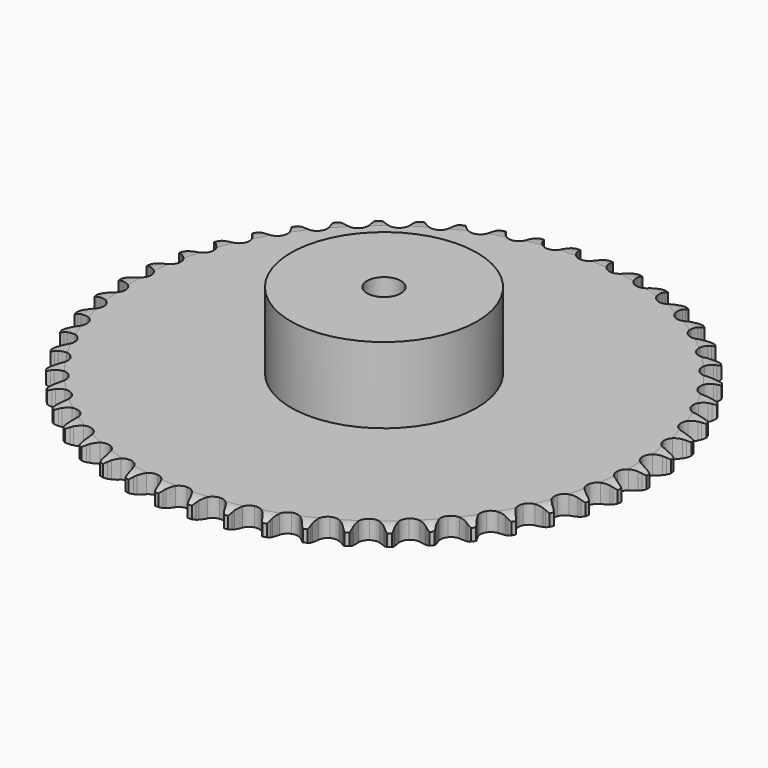
from build123d import *

# Parameters (mm, degrees)
PAD_DEPTH         = 11.1
SKETCH001_R       = 55
PAD001_DEPTH      = 56
SKETCH002_R       = 10
POCKET_DEPTH      = 0.001
POCKET_DEPTH_BACK = 56.001


with BuildPart() as part:
    # Sprocket → Pad (new body)
    with BuildSketch(Plane.XY):
        with BuildLine():
            ThreePointArc((-9.906473, 157.45888), (-8.588511, 155.781936), (-7.66687, 153.858464))
            Line((-7.66687, 153.858464), (-7.079791, 152.183904))
            ThreePointArc((-7.079791, 152.183904), (-6.153474, 150.057582), (-4.925101, 148.090246))
            ThreePointArc((-4.925101, 148.090246), (-2.761333, 146.251989), (0, 145.5916))
            ThreePointArc((0, 145.5916), (2.761333, 146.251989), (4.925101, 148.090246))
            ThreePointArc((4.925101, 148.090246), (6.153474, 150.057582), (7.079791, 152.183904))
            Line((7.079791, 152.183904), (7.66687, 153.858464))
            ThreePointArc((7.66687, 153.858464), (8.588511, 155.781936), (9.906473, 157.45888))
            ThreePointArc((9.906473, 157.45888), (11.003866, 155.629975), (11.677165, 153.606158))
            Line((11.677165, 153.606158), (12.049736, 151.871222))
            ThreePointArc((12.049736, 151.871222), (12.70225, 149.645568), (13.674365, 147.539789))
            ThreePointArc((13.674365, 147.539789), (15.590675, 145.444835), (18.247466, 144.443567))
            ThreePointArc((18.247466, 144.443567), (21.069794, 144.752662), (23.446894, 146.305231))
            Line((23.446894, 146.305231), (26.097665, 150.096556))
            ThreePointArc((26.097665, 150.096556), (26.471464, 150.901604), (26.889993, 151.684331))
            ThreePointArc((26.889993, 151.684331), (28.045441, 153.477123), (29.563188, 154.975659))
            ThreePointArc((29.563188, 154.975659), (30.422705, 153.023636), (30.837043, 150.931391))
            Line((30.837043, 150.931391), (30.989232, 149.16344))
            ThreePointArc((30.989232, 149.16344), (31.357652, 146.873554), (32.058177, 144.662541))
            ThreePointArc((32.058177, 144.662541), (33.69681, 142.34393), (36.207159, 141.017572))
            ThreePointArc((36.207159, 141.017572), (39.045972, 140.970498), (41.598916, 142.212896))
            Line((41.598916, 142.212896), (44.703964, 145.642095))
            ThreePointArc((44.703964, 145.642095), (45.175714, 146.393946), (45.689045, 147.118045))
            ThreePointArc((45.689045, 147.118045), (47.060079, 148.751884), (48.753674, 150.04838))
            ThreePointArc((48.753674, 150.04838), (49.36176, 148.004023), (49.510603, 145.876345))
            Line((49.510603, 145.876345), (49.440009, 144.103261))
            ThreePointArc((49.440009, 144.103261), (49.518525, 141.785256), (49.936413, 139.503879))
            ThreePointArc((49.936413, 139.503879), (51.271525, 136.998175), (53.595843, 135.367646))
            ThreePointArc((53.595843, 135.367646), (56.406371, 134.965146), (59.094898, 135.877778))
            Line((59.094898, 135.877778), (62.605255, 138.890771))
            ThreePointArc((62.605255, 138.890771), (63.167517, 139.577567), (63.767554, 140.231619))
            ThreePointArc((63.767554, 140.231619), (65.332551, 141.680739), (67.175285, 142.754748))
            ThreePointArc((67.175285, 142.754748), (67.522351, 140.650298), (67.403351, 138.520743))
            Line((67.403351, 138.520743), (67.111087, 136.770487))
            ThreePointArc((67.111087, 136.770487), (66.898461, 134.46092), (67.027121, 132.145157))
            ThreePointArc((67.027121, 132.145157), (68.037658, 129.491878), (70.139288, 127.582891))
            ThreePointArc((70.139288, 127.582891), (72.877208, 126.831313), (75.658919, 127.399786))
            Line((75.658919, 127.399786), (79.519223, 129.949057))
            ThreePointArc((79.519223, 129.949057), (80.16313, 130.559967), (80.84041, 131.133657))
            ThreePointArc((80.84041, 131.133657), (82.574689, 132.375205), (84.537502, 133.209788))
            ThreePointArc((84.537502, 133.209788), (84.618074, 131.078433), (84.233108, 128.980585))
            Line((84.233108, 128.980585), (83.723783, 127.280762))
            ThreePointArc((83.723783, 127.280762), (83.223369, 125.016055), (83.060772, 122.702427))
            ThreePointArc((83.060772, 122.702427), (83.730797, 119.943416), (85.576595, 117.786078))
            ThreePointArc((85.576595, 117.786078), (88.198728, 116.697274), (91.029753, 116.912624))
            Line((91.029753, 116.912624), (95.179126, 118.957968))
            ThreePointArc((95.179126, 118.957968), (95.894523, 119.483359), (96.638364, 119.967639))
            ThreePointArc((96.638364, 119.967639), (98.514576, 120.982034), (100.566512, 121.564031))
            ThreePointArc((100.566512, 121.564031), (100.379319, 119.439384), (99.734459, 117.406327))
            Line((99.734459, 117.406327), (99.016106, 115.783742))
            ThreePointArc((99.016106, 115.783742), (98.235794, 113.599612), (97.784505, 111.324607))
            ThreePointArc((97.784505, 111.324607), (98.103451, 108.503375), (99.664308, 106.131709))
            ThreePointArc((99.664308, 106.131709), (102.129301, 104.722849), (104.964993, 104.58168))
            Line((104.964993, 104.58168), (109.337997, 106.090842))
            ThreePointArc((109.337997, 106.090842), (110.113601, 106.522426), (110.912274, 106.90966))
            ThreePointArc((110.912274, 106.90966), (112.900828, 107.680904), (115.009528, 108.001136))
            ThreePointArc((115.009528, 108.001136), (114.557522, 105.916704), (113.662938, 103.980501))
            Line((113.662938, 103.980501), (112.746885, 102.460744))
            ThreePointArc((112.746885, 102.460744), (111.698982, 100.391636), (110.966118, 98.191131))
            ThreePointArc((110.966118, 98.191131), (110.928954, 95.35217), (112.180256, 92.803578))
            ThreePointArc((112.180256, 92.803578), (114.449235, 91.096883), (117.244873, 90.60142))
            Line((117.244873, 90.60142), (121.772542, 91.550599))
            ThreePointArc((121.772542, 91.550599), (122.596123, 91.881571), (123.437031, 92.165651))
            ThreePointArc((123.437031, 92.165651), (125.506567, 92.681582), (127.638776, 92.734999))
            ThreePointArc((127.638776, 92.734999), (126.929085, 90.723655), (125.798884, 88.91484))
            Line((125.798884, 88.91484), (124.699579, 87.521879))
            ThreePointArc((124.699579, 87.521879), (123.400611, 85.600423), (122.397729, 83.509122))
            ThreePointArc((122.397729, 83.509122), (122.005042, 80.697206), (122.927053, 78.01188))
            ThreePointArc((122.927053, 78.01188), (124.964235, 76.034264), (127.675731, 75.192322))
            Line((127.675731, 75.192322), (132.286662, 75.566549))
            ThreePointArc((132.286662, 75.566549), (133.14523, 75.791689), (134.015112, 75.968136))
            ThreePointArc((134.015112, 75.968136), (136.132993, 76.220616), (138.255083, 76.006375))
            ThreePointArc((138.255083, 76.006375), (137.2989, 74.099839), (135.950906, 72.446939))
            Line((135.950906, 72.446939), (134.685685, 71.202741))
            ThreePointArc((134.685685, 71.202741), (133.156138, 69.459241), (131.899055, 67.510124))
            ThreePointArc((131.899055, 67.510124), (131.157038, 64.769598), (131.735218, 61.989888))
            ThreePointArc((131.735218, 61.989888), (133.508475, 59.772539), (136.093067, 58.597396))
            Line((136.093067, 58.597396), (140.714542, 58.390769))
            ThreePointArc((140.714542, 58.390769), (141.594558, 58.506527), (142.479695, 58.572557))
            ThreePointArc((142.479695, 58.572557), (144.61252, 58.557606), (146.691025, 58.079085))
            ThreePointArc((146.691025, 58.079085), (145.50343, 56.307425), (143.958902, 54.836507))
            Line((143.958902, 54.836507), (142.547718, 53.760694))
            ThreePointArc((142.547718, 53.760694), (140.811713, 52.222644), (139.320254, 50.446452))
            ThreePointArc((139.320254, 50.446452), (138.240608, 47.820534), (138.46584, 44.990279))
            ThreePointArc((138.46584, 44.990279), (139.947206, 42.568166), (142.364133, 41.078354))
            Line((142.364133, 41.078354), (146.92327, 40.294131))
            ThreePointArc((146.92327, 40.294131), (147.810855, 40.298682), (148.697288, 40.253254))
            ThreePointArc((148.697288, 40.253254), (150.811421, 39.971107), (152.813562, 39.235854))
            ThreePointArc((152.813562, 39.235854), (151.413283, 37.627008), (149.69658, 36.36127))
            Line((149.69658, 36.36127), (148.161689, 35.470808))
            ThreePointArc((148.161689, 35.470808), (146.246603, 34.162466), (144.544289, 32.587209))
            ThreePointArc((144.544289, 32.587209), (143.144042, 30.117313), (143.012772, 27.281145))
            ThreePointArc((143.012772, 27.281145), (144.178887, 24.692467), (146.390032, 22.911481))
            Line((146.390032, 22.911481), (150.81493, 21.562032))
            ThreePointArc((150.81493, 21.562032), (151.696086, 21.455302), (152.569836, 21.299133))
            ThreePointArc((152.569836, 21.299133), (154.631936, 20.75424), (156.526138, 19.77385))
            ThreePointArc((156.526138, 19.77385), (154.935259, 18.353192), (153.073453, 17.312594))
            Line((153.073453, 17.312594), (151.43906, 16.621527))
            ThreePointArc((151.43906, 16.621527), (149.375098, 15.563525), (147.488774, 14.214046))
            ThreePointArc((147.488774, 14.214046), (145.790009, 11.939123), (145.304308, 9.141772))
            ThreePointArc((145.304308, 9.141772), (146.13678, 6.427354), (148.107273, 4.383281))
            Line((148.107273, 4.383281), (152.328148, 2.489886))
            ThreePointArc((152.328148, 2.489886), (153.188979, 2.27356), (154.036266, 2.009112))
            ThreePointArc((154.036266, 2.009112), (156.013813, 1.210066), (157.770203, 0))
            ThreePointArc((157.770203, 0), (156.013813, -1.210066), (154.036266, -2.009112))
            Line((154.036266, -2.009112), (152.328148, -2.489886))
            ThreePointArc((152.328148, -2.489886), (150.147857, -3.280862), (148.107273, -4.383281))
            ThreePointArc((148.107273, -4.383281), (146.13678, -6.427354), (145.304308, -9.141772))
            ThreePointArc((145.304308, -9.141772), (145.790009, -11.939123), (147.488774, -14.214046))
            Line((147.488774, -14.214046), (151.43906, -16.621527))
            ThreePointArc((151.43906, -16.621527), (152.265991, -16.944038), (153.073453, -17.312594))
            ThreePointArc((153.073453, -17.312594), (154.935259, -18.353192), (156.526138, -19.77385))
            ThreePointArc((156.526138, -19.77385), (154.631936, -20.75424), (152.569836, -21.299133))
            Line((152.569836, -21.299133), (150.81493, -21.562032))
            ThreePointArc((150.81493, -21.562032), (148.552696, -22.073508), (146.390032, -22.911481))
            ThreePointArc((146.390032, -22.911481), (144.178887, -24.692467), (143.012772, -27.281145))
            ThreePointArc((143.012772, -27.281145), (143.144042, -30.117313), (144.544289, -32.587209))
            Line((144.544289, -32.587209), (148.161689, -35.470808))
            ThreePointArc((148.161689, -35.470808), (148.941677, -35.894418), (149.69658, -36.36127))
            ThreePointArc((149.69658, -36.36127), (151.413283, -37.627008), (152.813562, -39.235854))
            ThreePointArc((152.813562, -39.235854), (150.811421, -39.971107), (148.697288, -40.253254))
            Line((148.697288, -40.253254), (146.92327, -40.294131))
            ThreePointArc((146.92327, -40.294131), (144.614769, -40.518041), (142.364133, -41.078354))
            ThreePointArc((142.364133, -41.078354), (139.947206, -42.568166), (138.46584, -44.990279))
            ThreePointArc((138.46584, -44.990279), (138.240608, -47.820534), (139.320254, -50.446452))
            Line((139.320254, -50.446452), (142.547718, -53.760694))
            ThreePointArc((142.547718, -53.760694), (143.268464, -54.278722), (143.958902, -54.836507))
            ThreePointArc((143.958902, -54.836507), (145.50343, -56.307425), (146.691025, -58.079085))
            ThreePointArc((146.691025, -58.079085), (144.61252, -58.557606), (142.479695, -58.572557))
            Line((142.479695, -58.572557), (140.714542, -58.390769))
            ThreePointArc((140.714542, -58.390769), (138.396181, -58.323581), (136.093067, -58.597396))
            ThreePointArc((136.093067, -58.597396), (133.508475, -59.772539), (131.735218, -61.989888))
            ThreePointArc((131.735218, -61.989888), (131.157038, -64.769598), (131.899055, -67.510124))
            Line((131.899055, -67.510124), (134.685685, -71.202741))
            ThreePointArc((134.685685, -71.202741), (135.335822, -71.807018), (135.950906, -72.446939))
            ThreePointArc((135.950906, -72.446939), (137.2989, -74.099839), (138.255083, -76.006375))
            ThreePointArc((138.255083, -76.006375), (136.132993, -76.220616), (134.015112, -75.968136))
            Line((134.015112, -75.968136), (132.286662, -75.566549))
            ThreePointArc((132.286662, -75.566549), (129.995003, -75.209323), (127.675731, -75.192322))
            ThreePointArc((127.675731, -75.192322), (124.964235, -76.034264), (122.927053, -78.01188))
            ThreePointArc((122.927053, -78.01188), (122.005042, -80.697206), (122.397729, -83.509122))
            Line((122.397729, -83.509122), (124.699579, -87.521879))
            ThreePointArc((124.699579, -87.521879), (125.268853, -88.202874), (125.798884, -88.91484))
            ThreePointArc((125.798884, -88.91484), (126.929085, -90.723655), (127.638776, -92.734999))
            ThreePointArc((127.638776, -92.734999), (125.506567, -92.681582), (123.437031, -92.165651))
            Line((123.437031, -92.165651), (121.772542, -91.550599))
            ThreePointArc((121.772542, -91.550599), (119.543726, -90.908969), (117.244873, -90.60142))
            ThreePointArc((117.244873, -90.60142), (114.449235, -91.096883), (112.180256, -92.803578))
            ThreePointArc((112.180256, -92.803578), (110.928954, -95.35217), (110.966118, -98.191131))
            Line((110.966118, -98.191131), (112.746885, -102.460744))
            ThreePointArc((112.746885, -102.460744), (113.226319, -103.207719), (113.662938, -103.980501))
            ThreePointArc((113.662938, -103.980501), (114.557522, -105.916704), (115.009528, -108.001136))
            ThreePointArc((115.009528, -108.001136), (112.900828, -107.680904), (110.912274, -106.90966))
            Line((110.912274, -106.90966), (109.337997, -106.090842))
            ThreePointArc((109.337997, -106.090842), (107.207173, -105.174927), (104.964993, -104.58168))
            ThreePointArc((104.964993, -104.58168), (102.129301, -104.722849), (99.664308, -106.131709))
            ThreePointArc((99.664308, -106.131709), (98.103451, -108.503375), (97.784505, -111.324607))
            Line((97.784505, -111.324607), (99.016106, -115.783742))
            ThreePointArc((99.016106, -115.783742), (99.398138, -116.584916), (99.734459, -117.406327))
            ThreePointArc((99.734459, -117.406327), (100.379319, -119.439384), (100.566512, -121.564031))
            ThreePointArc((100.566512, -121.564031), (98.514576, -120.982034), (96.638364, -119.967639))
            Line((96.638364, -119.967639), (95.179126, -118.957968))
            ThreePointArc((95.179126, -118.957968), (93.179899, -117.782213), (91.029753, -116.912624))
            ThreePointArc((91.029753, -116.912624), (88.198728, -116.697274), (85.576595, -117.786078))
            ThreePointArc((85.576595, -117.786078), (83.730797, -119.943416), (83.060772, -122.702427))
            Line((83.060772, -122.702427), (83.723783, -127.280762))
            ThreePointArc((83.723783, -127.280762), (84.00239, -128.123499), (84.233108, -128.980585))
            ThreePointArc((84.233108, -128.980585), (84.618074, -131.078433), (84.537502, -133.209788))
            ThreePointArc((84.537502, -133.209788), (82.574689, -132.375205), (80.84041, -131.133657))
            Line((80.84041, -131.133657), (79.519223, -129.949057))
            ThreePointArc((79.519223, -129.949057), (77.683122, -128.532003), (75.658919, -127.399786))
            ThreePointArc((75.658919, -127.399786), (72.877208, -126.831313), (70.139288, -127.582891))
            ThreePointArc((70.139288, -127.582891), (68.037658, -129.491878), (67.027121, -132.145157))
            Line((67.027121, -132.145157), (67.111087, -136.770487))
            ThreePointArc((67.111087, -136.770487), (67.281873, -137.641498), (67.403351, -138.520743))
            ThreePointArc((67.403351, -138.520743), (67.522351, -140.650298), (67.175285, -142.754748))
            ThreePointArc((67.175285, -142.754748), (65.332551, -141.680739), (63.767554, -140.231619))
            Line((63.767554, -140.231619), (62.605255, -138.890771))
            ThreePointArc((62.605255, -138.890771), (60.961236, -137.254766), (59.094898, -135.877778))
            ThreePointArc((59.094898, -135.877778), (56.406371, -134.965146), (53.595843, -135.367646))
            ThreePointArc((53.595843, -135.367646), (51.271525, -136.998175), (49.936413, -139.503879))
            Line((49.936413, -139.503879), (49.440009, -144.103261))
            ThreePointArc((49.440009, -144.103261), (49.500282, -144.988809), (49.510603, -145.876345))
            ThreePointArc((49.510603, -145.876345), (49.36176, -148.004023), (48.753674, -150.04838))
            ThreePointArc((48.753674, -150.04838), (47.060079, -148.751884), (45.689045, -147.118045))
            Line((45.689045, -147.118045), (44.703964, -145.642095))
            ThreePointArc((44.703964, -145.642095), (43.277954, -143.81294), (41.598916, -142.212896))
            ThreePointArc((41.598916, -142.212896), (39.045972, -140.970498), (36.207159, -141.017572))
            ThreePointArc((36.207159, -141.017572), (33.69681, -142.34393), (32.058177, -144.662541))
            Line((32.058177, -144.662541), (30.989232, -149.16344))
            ThreePointArc((30.989232, -149.16344), (30.938041, -150.049559), (30.837043, -150.931391))
            ThreePointArc((30.837043, -150.931391), (30.422705, -153.023636), (29.563188, -154.975659))
            ThreePointArc((29.563188, -154.975659), (28.045441, -153.477123), (26.889993, -151.684331))
            Line((26.889993, -151.684331), (26.097665, -150.096556))
            ThreePointArc((26.097665, -150.096556), (24.912154, -148.103098), (23.446894, -146.305231))
            ThreePointArc((23.446894, -146.305231), (21.069794, -144.752662), (18.247466, -144.443567))
            ThreePointArc((18.247466, -144.443567), (15.590675, -145.444835), (13.674365, -147.539789))
            Line((13.674365, -147.539789), (12.049736, -151.871222))
            ThreePointArc((12.049736, -151.871222), (11.887889, -152.743938), (11.677165, -153.606158))
            ThreePointArc((11.677165, -153.606158), (11.003866, -155.629975), (9.906473, -157.45888))
            ThreePointArc((9.906473, -157.45888), (8.588511, -155.781936), (7.66687, -153.858464))
            Line((7.66687, -153.858464), (7.079791, -152.183904))
            ThreePointArc((7.079791, -152.183904), (6.153474, -150.057582), (4.925101, -148.090246))
            ThreePointArc((4.925101, -148.090246), (2.761333, -146.251989), (0, -145.5916))
            ThreePointArc((0, -145.5916), (-2.761333, -146.251989), (-4.925101, -148.090246))
            Line((-4.925101, -148.090246), (-7.079791, -152.183904))
            ThreePointArc((-7.079791, -152.183904), (-7.349742, -153.029454), (-7.66687, -153.858464))
            ThreePointArc((-7.66687, -153.858464), (-8.588511, -155.781936), (-9.906473, -157.45888))
            ThreePointArc((-9.906473, -157.45888), (-11.003866, -155.629975), (-11.677165, -153.606158))
            Line((-11.677165, -153.606158), (-12.049736, -151.871222))
            ThreePointArc((-12.049736, -151.871222), (-12.70225, -149.645568), (-13.674365, -147.539789))
            ThreePointArc((-13.674365, -147.539789), (-15.590675, -145.444835), (-18.247466, -144.443567))
            ThreePointArc((-18.247466, -144.443567), (-21.069794, -144.752662), (-23.446894, -146.305231))
            Line((-23.446894, -146.305231), (-26.097665, -150.096556))
            ThreePointArc((-26.097665, -150.096556), (-26.471464, -150.901604), (-26.889993, -151.684331))
            ThreePointArc((-26.889993, -151.684331), (-28.045441, -153.477123), (-29.563188, -154.975659))
            ThreePointArc((-29.563188, -154.975659), (-30.422705, -153.023636), (-30.837043, -150.931391))
            Line((-30.837043, -150.931391), (-30.989232, -149.16344))
            ThreePointArc((-30.989232, -149.16344), (-31.357652, -146.873554), (-32.058177, -144.662541))
            ThreePointArc((-32.058177, -144.662541), (-33.69681, -142.34393), (-36.207159, -141.017572))
            ThreePointArc((-36.207159, -141.017572), (-39.045972, -140.970498), (-41.598916, -142.212896))
            Line((-41.598916, -142.212896), (-44.703964, -145.642095))
            ThreePointArc((-44.703964, -145.642095), (-45.175714, -146.393946), (-45.689045, -147.118045))
            ThreePointArc((-45.689045, -147.118045), (-47.060079, -148.751884), (-48.753674, -150.04838))
            ThreePointArc((-48.753674, -150.04838), (-49.36176, -148.004023), (-49.510603, -145.876345))
            Line((-49.510603, -145.876345), (-49.440009, -144.103261))
            ThreePointArc((-49.440009, -144.103261), (-49.518525, -141.785256), (-49.936413, -139.503879))
            ThreePointArc((-49.936413, -139.503879), (-51.271525, -136.998175), (-53.595843, -135.367646))
            ThreePointArc((-53.595843, -135.367646), (-56.406371, -134.965146), (-59.094898, -135.877778))
            Line((-59.094898, -135.877778), (-62.605255, -138.890771))
            ThreePointArc((-62.605255, -138.890771), (-63.167517, -139.577567), (-63.767554, -140.231619))
            ThreePointArc((-63.767554, -140.231619), (-65.332551, -141.680739), (-67.175285, -142.754748))
            ThreePointArc((-67.175285, -142.754748), (-67.522351, -140.650298), (-67.403351, -138.520743))
            Line((-67.403351, -138.520743), (-67.111087, -136.770487))
            ThreePointArc((-67.111087, -136.770487), (-66.898461, -134.46092), (-67.027121, -132.145157))
            ThreePointArc((-67.027121, -132.145157), (-68.037658, -129.491878), (-70.139288, -127.582891))
            ThreePointArc((-70.139288, -127.582891), (-72.877208, -126.831313), (-75.658919, -127.399786))
            Line((-75.658919, -127.399786), (-79.519223, -129.949057))
            ThreePointArc((-79.519223, -129.949057), (-80.16313, -130.559967), (-80.84041, -131.133657))
            ThreePointArc((-80.84041, -131.133657), (-82.574689, -132.375205), (-84.537502, -133.209788))
            ThreePointArc((-84.537502, -133.209788), (-84.618074, -131.078433), (-84.233108, -128.980585))
            Line((-84.233108, -128.980585), (-83.723783, -127.280762))
            ThreePointArc((-83.723783, -127.280762), (-83.223369, -125.016055), (-83.060772, -122.702427))
            ThreePointArc((-83.060772, -122.702427), (-83.730797, -119.943416), (-85.576595, -117.786078))
            ThreePointArc((-85.576595, -117.786078), (-88.198728, -116.697274), (-91.029753, -116.912624))
            Line((-91.029753, -116.912624), (-95.179126, -118.957968))
            ThreePointArc((-95.179126, -118.957968), (-95.894523, -119.483359), (-96.638364, -119.967639))
            ThreePointArc((-96.638364, -119.967639), (-98.514576, -120.982034), (-100.566512, -121.564031))
            ThreePointArc((-100.566512, -121.564031), (-100.379319, -119.439384), (-99.734459, -117.406327))
            Line((-99.734459, -117.406327), (-99.016106, -115.783742))
            ThreePointArc((-99.016106, -115.783742), (-98.235794, -113.599612), (-97.784505, -111.324607))
            ThreePointArc((-97.784505, -111.324607), (-98.103451, -108.503375), (-99.664308, -106.131709))
            ThreePointArc((-99.664308, -106.131709), (-102.129301, -104.722849), (-104.964993, -104.58168))
            Line((-104.964993, -104.58168), (-109.337997, -106.090842))
            ThreePointArc((-109.337997, -106.090842), (-110.113601, -106.522426), (-110.912274, -106.90966))
            ThreePointArc((-110.912274, -106.90966), (-112.900828, -107.680904), (-115.009528, -108.001136))
            ThreePointArc((-115.009528, -108.001136), (-114.557522, -105.916704), (-113.662938, -103.980501))
            Line((-113.662938, -103.980501), (-112.746885, -102.460744))
            ThreePointArc((-112.746885, -102.460744), (-111.698982, -100.391636), (-110.966118, -98.191131))
            ThreePointArc((-110.966118, -98.191131), (-110.928954, -95.35217), (-112.180256, -92.803578))
            ThreePointArc((-112.180256, -92.803578), (-114.449235, -91.096883), (-117.244873, -90.60142))
            Line((-117.244873, -90.60142), (-121.772542, -91.550599))
            ThreePointArc((-121.772542, -91.550599), (-122.596123, -91.881571), (-123.437031, -92.165651))
            ThreePointArc((-123.437031, -92.165651), (-125.506567, -92.681582), (-127.638776, -92.734999))
            ThreePointArc((-127.638776, -92.734999), (-126.929085, -90.723655), (-125.798884, -88.91484))
            Line((-125.798884, -88.91484), (-124.699579, -87.521879))
            ThreePointArc((-124.699579, -87.521879), (-123.400611, -85.600423), (-122.397729, -83.509122))
            ThreePointArc((-122.397729, -83.509122), (-122.005042, -80.697206), (-122.927053, -78.01188))
            ThreePointArc((-122.927053, -78.01188), (-124.964235, -76.034264), (-127.675731, -75.192322))
            Line((-127.675731, -75.192322), (-132.286662, -75.566549))
            ThreePointArc((-132.286662, -75.566549), (-133.14523, -75.791689), (-134.015112, -75.968136))
            ThreePointArc((-134.015112, -75.968136), (-136.132993, -76.220616), (-138.255083, -76.006375))
            ThreePointArc((-138.255083, -76.006375), (-137.2989, -74.099839), (-135.950906, -72.446939))
            Line((-135.950906, -72.446939), (-134.685685, -71.202741))
            ThreePointArc((-134.685685, -71.202741), (-133.156138, -69.459241), (-131.899055, -67.510124))
            ThreePointArc((-131.899055, -67.510124), (-131.157038, -64.769598), (-131.735218, -61.989888))
            ThreePointArc((-131.735218, -61.989888), (-133.508475, -59.772539), (-136.093067, -58.597396))
            Line((-136.093067, -58.597396), (-140.714542, -58.390769))
            ThreePointArc((-140.714542, -58.390769), (-141.594558, -58.506527), (-142.479695, -58.572557))
            ThreePointArc((-142.479695, -58.572557), (-144.61252, -58.557606), (-146.691025, -58.079085))
            ThreePointArc((-146.691025, -58.079085), (-145.50343, -56.307425), (-143.958902, -54.836507))
            Line((-143.958902, -54.836507), (-142.547718, -53.760694))
            ThreePointArc((-142.547718, -53.760694), (-140.811713, -52.222644), (-139.320254, -50.446452))
            ThreePointArc((-139.320254, -50.446452), (-138.240608, -47.820534), (-138.46584, -44.990279))
            ThreePointArc((-138.46584, -44.990279), (-139.947206, -42.568166), (-142.364133, -41.078354))
            Line((-142.364133, -41.078354), (-146.92327, -40.294131))
            ThreePointArc((-146.92327, -40.294131), (-147.810855, -40.298682), (-148.697288, -40.253254))
            ThreePointArc((-148.697288, -40.253254), (-150.811421, -39.971107), (-152.813562, -39.235854))
            ThreePointArc((-152.813562, -39.235854), (-151.413283, -37.627008), (-149.69658, -36.36127))
            Line((-149.69658, -36.36127), (-148.161689, -35.470808))
            ThreePointArc((-148.161689, -35.470808), (-146.246603, -34.162466), (-144.544289, -32.587209))
            ThreePointArc((-144.544289, -32.587209), (-143.144042, -30.117313), (-143.012772, -27.281145))
            ThreePointArc((-143.012772, -27.281145), (-144.178887, -24.692467), (-146.390032, -22.911481))
            Line((-146.390032, -22.911481), (-150.81493, -21.562032))
            ThreePointArc((-150.81493, -21.562032), (-151.696086, -21.455302), (-152.569836, -21.299133))
            ThreePointArc((-152.569836, -21.299133), (-154.631936, -20.75424), (-156.526138, -19.77385))
            ThreePointArc((-156.526138, -19.77385), (-154.935259, -18.353192), (-153.073453, -17.312594))
            Line((-153.073453, -17.312594), (-151.43906, -16.621527))
            ThreePointArc((-151.43906, -16.621527), (-149.375098, -15.563525), (-147.488774, -14.214046))
            ThreePointArc((-147.488774, -14.214046), (-145.790009, -11.939123), (-145.304308, -9.141772))
            ThreePointArc((-145.304308, -9.141772), (-146.13678, -6.427354), (-148.107273, -4.383281))
            Line((-148.107273, -4.383281), (-152.328148, -2.489886))
            ThreePointArc((-152.328148, -2.489886), (-153.188979, -2.27356), (-154.036266, -2.009112))
            ThreePointArc((-154.036266, -2.009112), (-156.013813, -1.210066), (-157.770203, 0))
            ThreePointArc((-157.770203, 0), (-156.013813, 1.210066), (-154.036266, 2.009112))
            Line((-154.036266, 2.009112), (-152.328148, 2.489886))
            ThreePointArc((-152.328148, 2.489886), (-150.147857, 3.280862), (-148.107273, 4.383281))
            ThreePointArc((-148.107273, 4.383281), (-146.13678, 6.427354), (-145.304308, 9.141772))
            ThreePointArc((-145.304308, 9.141772), (-145.790009, 11.939123), (-147.488774, 14.214046))
            Line((-147.488774, 14.214046), (-151.43906, 16.621527))
            ThreePointArc((-151.43906, 16.621527), (-152.265991, 16.944038), (-153.073453, 17.312594))
            ThreePointArc((-153.073453, 17.312594), (-154.935259, 18.353192), (-156.526138, 19.77385))
            ThreePointArc((-156.526138, 19.77385), (-154.631936, 20.75424), (-152.569836, 21.299133))
            Line((-152.569836, 21.299133), (-150.81493, 21.562032))
            ThreePointArc((-150.81493, 21.562032), (-148.552696, 22.073508), (-146.390032, 22.911481))
            ThreePointArc((-146.390032, 22.911481), (-144.178887, 24.692467), (-143.012772, 27.281145))
            ThreePointArc((-143.012772, 27.281145), (-143.144042, 30.117313), (-144.544289, 32.587209))
            Line((-144.544289, 32.587209), (-148.161689, 35.470808))
            ThreePointArc((-148.161689, 35.470808), (-148.941677, 35.894418), (-149.69658, 36.36127))
            ThreePointArc((-149.69658, 36.36127), (-151.413283, 37.627008), (-152.813562, 39.235854))
            ThreePointArc((-152.813562, 39.235854), (-150.811421, 39.971107), (-148.697288, 40.253254))
            Line((-148.697288, 40.253254), (-146.92327, 40.294131))
            ThreePointArc((-146.92327, 40.294131), (-144.614769, 40.518041), (-142.364133, 41.078354))
            ThreePointArc((-142.364133, 41.078354), (-139.947206, 42.568166), (-138.46584, 44.990279))
            ThreePointArc((-138.46584, 44.990279), (-138.240608, 47.820534), (-139.320254, 50.446452))
            Line((-139.320254, 50.446452), (-142.547718, 53.760694))
            ThreePointArc((-142.547718, 53.760694), (-143.268464, 54.278722), (-143.958902, 54.836507))
            ThreePointArc((-143.958902, 54.836507), (-145.50343, 56.307425), (-146.691025, 58.079085))
            ThreePointArc((-146.691025, 58.079085), (-144.61252, 58.557606), (-142.479695, 58.572557))
            Line((-142.479695, 58.572557), (-140.714542, 58.390769))
            ThreePointArc((-140.714542, 58.390769), (-138.396181, 58.323581), (-136.093067, 58.597396))
            ThreePointArc((-136.093067, 58.597396), (-133.508475, 59.772539), (-131.735218, 61.989888))
            ThreePointArc((-131.735218, 61.989888), (-131.157038, 64.769598), (-131.899055, 67.510124))
            Line((-131.899055, 67.510124), (-134.685685, 71.202741))
            ThreePointArc((-134.685685, 71.202741), (-135.335822, 71.807018), (-135.950906, 72.446939))
            ThreePointArc((-135.950906, 72.446939), (-137.2989, 74.099839), (-138.255083, 76.006375))
            ThreePointArc((-138.255083, 76.006375), (-136.132993, 76.220616), (-134.015112, 75.968136))
            Line((-134.015112, 75.968136), (-132.286662, 75.566549))
            ThreePointArc((-132.286662, 75.566549), (-129.995003, 75.209323), (-127.675731, 75.192322))
            ThreePointArc((-127.675731, 75.192322), (-124.964235, 76.034264), (-122.927053, 78.01188))
            ThreePointArc((-122.927053, 78.01188), (-122.005042, 80.697206), (-122.397729, 83.509122))
            Line((-122.397729, 83.509122), (-124.699579, 87.521879))
            ThreePointArc((-124.699579, 87.521879), (-125.268853, 88.202874), (-125.798884, 88.91484))
            ThreePointArc((-125.798884, 88.91484), (-126.929085, 90.723655), (-127.638776, 92.734999))
            ThreePointArc((-127.638776, 92.734999), (-125.506567, 92.681582), (-123.437031, 92.165651))
            Line((-123.437031, 92.165651), (-121.772542, 91.550599))
            ThreePointArc((-121.772542, 91.550599), (-119.543726, 90.908969), (-117.244873, 90.60142))
            ThreePointArc((-117.244873, 90.60142), (-114.449235, 91.096883), (-112.180256, 92.803578))
            ThreePointArc((-112.180256, 92.803578), (-110.928954, 95.35217), (-110.966118, 98.191131))
            Line((-110.966118, 98.191131), (-112.746885, 102.460744))
            ThreePointArc((-112.746885, 102.460744), (-113.226319, 103.207719), (-113.662938, 103.980501))
            ThreePointArc((-113.662938, 103.980501), (-114.557522, 105.916704), (-115.009528, 108.001136))
            ThreePointArc((-115.009528, 108.001136), (-112.900828, 107.680904), (-110.912274, 106.90966))
            Line((-110.912274, 106.90966), (-109.337997, 106.090842))
            ThreePointArc((-109.337997, 106.090842), (-107.207173, 105.174927), (-104.964993, 104.58168))
            ThreePointArc((-104.964993, 104.58168), (-102.129301, 104.722849), (-99.664308, 106.131709))
            ThreePointArc((-99.664308, 106.131709), (-98.103451, 108.503375), (-97.784505, 111.324607))
            Line((-97.784505, 111.324607), (-99.016106, 115.783742))
            ThreePointArc((-99.016106, 115.783742), (-99.398138, 116.584916), (-99.734459, 117.406327))
            ThreePointArc((-99.734459, 117.406327), (-100.379319, 119.439384), (-100.566512, 121.564031))
            ThreePointArc((-100.566512, 121.564031), (-98.514576, 120.982034), (-96.638364, 119.967639))
            Line((-96.638364, 119.967639), (-95.179126, 118.957968))
            ThreePointArc((-95.179126, 118.957968), (-93.179899, 117.782213), (-91.029753, 116.912624))
            ThreePointArc((-91.029753, 116.912624), (-88.198728, 116.697274), (-85.576595, 117.786078))
            ThreePointArc((-85.576595, 117.786078), (-83.730797, 119.943416), (-83.060772, 122.702427))
            Line((-83.060772, 122.702427), (-83.723783, 127.280762))
            ThreePointArc((-83.723783, 127.280762), (-84.00239, 128.123499), (-84.233108, 128.980585))
            ThreePointArc((-84.233108, 128.980585), (-84.618074, 131.078433), (-84.537502, 133.209788))
            ThreePointArc((-84.537502, 133.209788), (-82.574689, 132.375205), (-80.84041, 131.133657))
            Line((-80.84041, 131.133657), (-79.519223, 129.949057))
            ThreePointArc((-79.519223, 129.949057), (-77.683122, 128.532003), (-75.658919, 127.399786))
            ThreePointArc((-75.658919, 127.399786), (-72.877208, 126.831313), (-70.139288, 127.582891))
            ThreePointArc((-70.139288, 127.582891), (-68.037658, 129.491878), (-67.027121, 132.145157))
            Line((-67.027121, 132.145157), (-67.111087, 136.770487))
            ThreePointArc((-67.111087, 136.770487), (-67.281873, 137.641498), (-67.403351, 138.520743))
            ThreePointArc((-67.403351, 138.520743), (-67.522351, 140.650298), (-67.175285, 142.754748))
            ThreePointArc((-67.175285, 142.754748), (-65.332551, 141.680739), (-63.767554, 140.231619))
            Line((-63.767554, 140.231619), (-62.605255, 138.890771))
            ThreePointArc((-62.605255, 138.890771), (-60.961236, 137.254766), (-59.094898, 135.877778))
            ThreePointArc((-59.094898, 135.877778), (-56.406371, 134.965146), (-53.595843, 135.367646))
            ThreePointArc((-53.595843, 135.367646), (-51.271525, 136.998175), (-49.936413, 139.503879))
            Line((-49.936413, 139.503879), (-49.440009, 144.103261))
            ThreePointArc((-49.440009, 144.103261), (-49.500282, 144.988809), (-49.510603, 145.876345))
            ThreePointArc((-49.510603, 145.876345), (-49.36176, 148.004023), (-48.753674, 150.04838))
            ThreePointArc((-48.753674, 150.04838), (-47.060079, 148.751884), (-45.689045, 147.118045))
            Line((-45.689045, 147.118045), (-44.703964, 145.642095))
            ThreePointArc((-44.703964, 145.642095), (-43.277954, 143.81294), (-41.598916, 142.212896))
            ThreePointArc((-41.598916, 142.212896), (-39.045972, 140.970498), (-36.207159, 141.017572))
            ThreePointArc((-36.207159, 141.017572), (-33.69681, 142.34393), (-32.058177, 144.662541))
            Line((-32.058177, 144.662541), (-30.989232, 149.16344))
            ThreePointArc((-30.989232, 149.16344), (-30.938041, 150.049559), (-30.837043, 150.931391))
            ThreePointArc((-30.837043, 150.931391), (-30.422705, 153.023636), (-29.563188, 154.975659))
            ThreePointArc((-29.563188, 154.975659), (-28.045441, 153.477123), (-26.889993, 151.684331))
            Line((-26.889993, 151.684331), (-26.097665, 150.096556))
            ThreePointArc((-26.097665, 150.096556), (-24.912154, 148.103098), (-23.446894, 146.305231))
            ThreePointArc((-23.446894, 146.305231), (-21.069794, 144.752662), (-18.247466, 144.443567))
            ThreePointArc((-18.247466, 144.443567), (-15.590675, 145.444835), (-13.674365, 147.539789))
            Line((-13.674365, 147.539789), (-12.049736, 151.871222))
            ThreePointArc((-12.049736, 151.871222), (-11.887889, 152.743938), (-11.677165, 153.606158))
            ThreePointArc((-11.677165, 153.606158), (-11.003866, 155.629975), (-9.906473, 157.45888))
        make_face()
    extrude(amount=PAD_DEPTH)

    # Sketch → Groove (revolve, cut)
    with BuildSketch(Plane.XZ):
        with BuildLine():
            Line((147.664719, 0), (156.15, 0))
            Line((164.635281, 0), (156.15, 0))
            Line((164.635281, 11.1), (164.635281, 0))
            Line((156.15, 11.1), (164.635281, 11.1))
            Line((147.664719, 11.1), (156.15, 11.1))
            ThreePointArc((156.15, 9.1), (152.023618, 10.593242), (147.664719, 11.1))
            Line((156.15, 2), (156.15, 9.1))
            ThreePointArc((147.664719, 0), (152.023618, 0.506758), (156.15, 2))
        make_face()
    revolve(axis=Axis((0, 0, 0), (0, 0, 1)), mode=Mode.SUBTRACT)

    # Sketch001 → Pad001 (join)
    with BuildSketch(Plane.XY):
        Circle(SKETCH001_R)
    extrude(amount=PAD001_DEPTH)

    # Sketch002 → Pocket (cut, two sides)
    with BuildSketch(Plane.XY) as pocket_sk:
        Circle(SKETCH002_R)
    extrude(amount=-POCKET_DEPTH, mode=Mode.SUBTRACT)
    extrude(pocket_sk.sketch, amount=POCKET_DEPTH_BACK, mode=Mode.SUBTRACT)


solid = part.part
